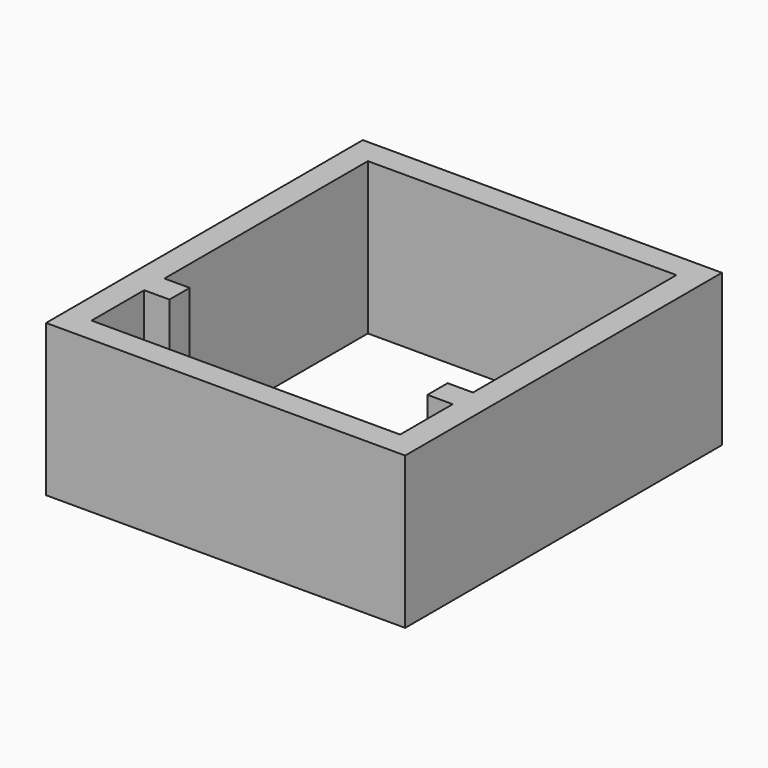
from build123d import *

# Parameters (mm, degrees)
F0_W     = 71
F0_H     = 78.27916
F1_DEPTH = 25
F2_W     = 71
F2_H     = 78.27916
F3_DEPTH = 5


with BuildPart() as f1:
    # F0 (on Top) → F1 (new body)
    with BuildSketch(Plane.XY):
        Rectangle(F0_W, F0_H)
        Polygon((-30.5, -34.13958), (-30.5, -21.13958), (-25.5, -21.13958), (-25.5, -16.13958), (-30.5, -16.13958), (-30.5, 34.13958), (30.5, 34.13958), (30.5, -16.13958), (25.5, -16.13958), (25.5, -21.13958), (30.5, -21.13958), (30.5, -34.13958), align=None, mode=Mode.SUBTRACT)
    extrude(amount=F1_DEPTH)

    # F2 (on face) → F3 (join)
    with BuildSketch(Plane(origin=(0, 0, 0), x_dir=(1, 0, 0), z_dir=(0, 0, -1))):
        Rectangle(F2_W, F2_H)
        Polygon((-25.5, 34.13958), (25.5, 34.13958), (25.5, 16.13958), (30.5, 16.13958), (30.5, -34.13958), (-30.5, -34.13958), (-30.5, 16.13958), (-25.5, 16.13958), align=None, mode=Mode.SUBTRACT)
    extrude(amount=F3_DEPTH)


solid = f1.part
